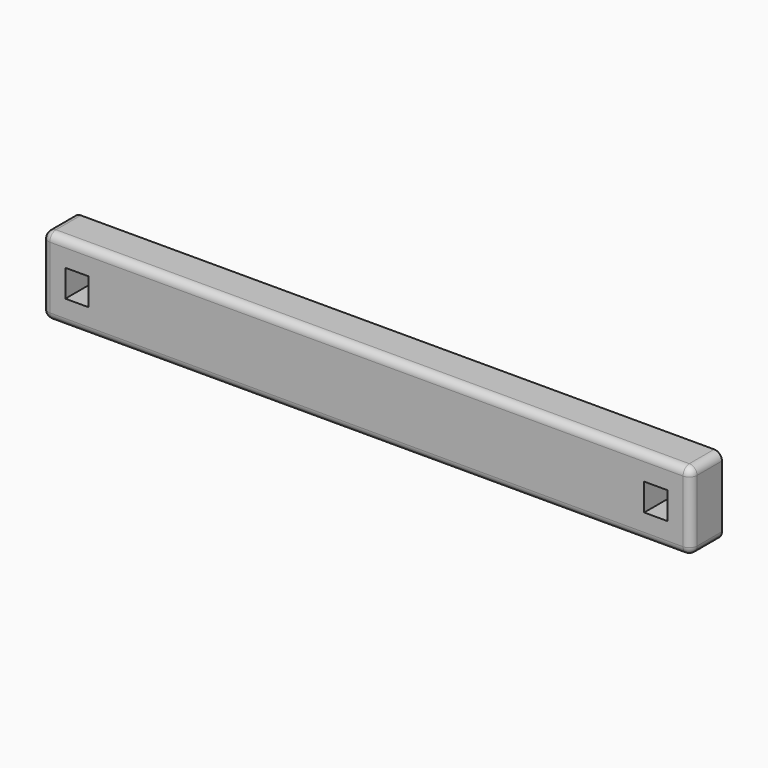
from build123d import *

# Parameters (mm, degrees)
F0_W     = 212.09
F0_H     = 25.4
F1_DEPTH = 12.7
F2_R     = 2.54
F4_W     = 7.62
F4_H     = 8.89
F5_DEPTH = 25.4


with BuildPart() as f1:
    # F0 (on Front) → F1 (new body)
    with BuildSketch(Plane.XZ):
        Rectangle(F0_W, F0_H)
    extrude(amount=F1_DEPTH)

    # F2
    f2_edges = [f1.edges().sort_by_distance(p)[0] for p in [
        (106.045, -6.35, 12.7),
        (106.045, -12.7, 0),
        (0, -12.7, 12.7),
        (0, -12.7, -12.7),
        (-106.045, -12.7, 0),
        (-106.045, -6.35, 12.7),
        (106.045, -6.35, -12.7),
        (-106.045, -6.35, -12.7),
    ]]
    fillet(f2_edges, radius=F2_R)

    # F4 (on Front) → F5 (cut)
    with BuildSketch(Plane.XZ):
        with Locations((94.615, 0)):
            Rectangle(F4_W, F4_H)
        with Locations((-94.615, 0)):
            Rectangle(F4_W, F4_H)
    extrude(amount=F5_DEPTH, mode=Mode.SUBTRACT)


solid = f1.part
